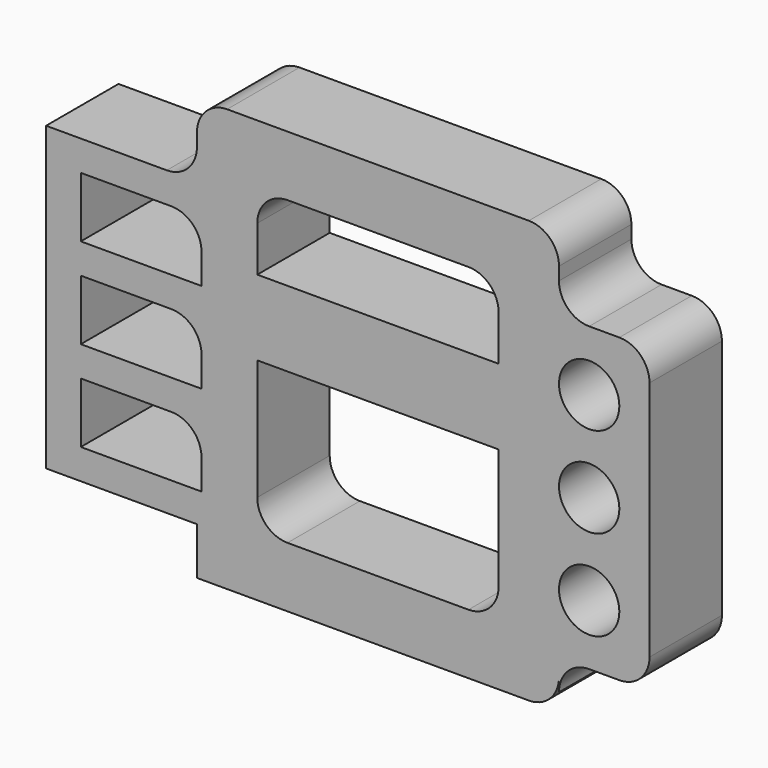
from build123d import *

# Parameters (mm, degrees)
F0_R     = 10
F1_DEPTH = 30


with BuildPart() as f1:
    # F0 (on Front) → F1 (new body)
    with BuildSketch(Plane.XZ):
        with BuildLine():
            ThreePointArc((-43.386797, 55.138951), (-46.315729, 48.067883), (-53.386797, 45.138951))
            Line((-53.386797, 45.138951), (-93.386797, 45.138951))
            Line((-93.386797, 45.138951), (-93.386797, -54.861049))
            Line((-93.386797, -54.861049), (-43.386797, -54.861049))
            Line((-43.386797, -54.861049), (-43.386797, -70.548529))
            Line((-43.386797, -70.548529), (66.613203, -70.548529))
            ThreePointArc((66.613203, -70.548529), (73.684271, -67.619597), (76.613203, -60.548529))
            Line((76.613203, -60.548529), (76.613203, -64.861049))
            ThreePointArc((76.613203, -64.861049), (79.542135, -57.789981), (86.613203, -54.861049))
            Line((86.613203, -54.861049), (96.613203, -54.861049))
            ThreePointArc((96.613203, -54.861049), (103.684271, -51.932117), (106.613203, -44.861049))
            Line((106.613203, -44.861049), (106.613203, 35.138951))
            ThreePointArc((106.613203, 35.138951), (103.684271, 42.210019), (96.613203, 45.138951))
            Line((96.613203, 45.138951), (86.613203, 45.138951))
            ThreePointArc((86.613203, 45.138951), (79.542135, 48.067883), (76.613203, 55.138951))
            Line((76.613203, 55.138951), (76.613203, 59.451471))
            ThreePointArc((76.613203, 59.451471), (73.684271, 66.522539), (66.613203, 69.451471))
            Line((66.613203, 69.451471), (-33.386797, 69.451471))
            ThreePointArc((-33.386797, 69.451471), (-40.457865, 66.522539), (-43.386797, 59.451471))
            Line((-43.386797, 59.451471), (-43.386797, 55.138951))
        make_face()
        with BuildLine():
            Line((-81.881762, -44.861049), (-81.881762, -24.861049))
            Line((-81.881762, -24.861049), (-51.881762, -24.861049))
            ThreePointArc((-51.881762, -24.861049), (-44.810694, -27.789981), (-41.881762, -34.861049))
            Line((-41.881762, -34.861049), (-41.881762, -44.861049))
            Line((-41.881762, -44.861049), (-81.881762, -44.861049))
        make_face(mode=Mode.SUBTRACT)
        with BuildLine():
            Line((-81.881762, -14.861049), (-81.881762, 5.138951))
            Line((-81.881762, 5.138951), (-51.881762, 5.138951))
            ThreePointArc((-51.881762, 5.138951), (-44.810694, 2.210019), (-41.881762, -4.861049))
            Line((-41.881762, -4.861049), (-41.881762, -14.861049))
            Line((-41.881762, -14.861049), (-81.881762, -14.861049))
        make_face(mode=Mode.SUBTRACT)
        with BuildLine():
            Line((-23.386797, -40.548529), (-23.386797, -0.548529))
            Line((-23.386797, -0.548529), (56.613203, -0.548529))
            Line((56.613203, -0.548529), (56.613203, -40.548529))
            ThreePointArc((56.613203, -40.548529), (53.684271, -47.619597), (46.613203, -50.548529))
            Line((46.613203, -50.548529), (-13.386797, -50.548529))
            ThreePointArc((-13.386797, -50.548529), (-20.457865, -47.619597), (-23.386797, -40.548529))
        make_face(mode=Mode.SUBTRACT)
        with Locations((86.613203, -34.861049)):
            Circle(F0_R, mode=Mode.SUBTRACT)
        with Locations((86.613203, -4.861049)):
            Circle(F0_R, mode=Mode.SUBTRACT)
        with BuildLine():
            Line((-81.881762, 15.138951), (-81.881762, 35.138951))
            Line((-81.881762, 35.138951), (-51.881762, 35.138951))
            ThreePointArc((-51.881762, 35.138951), (-44.810694, 32.210019), (-41.881762, 25.138951))
            Line((-41.881762, 25.138951), (-41.881762, 15.138951))
            Line((-41.881762, 15.138951), (-81.881762, 15.138951))
        make_face(mode=Mode.SUBTRACT)
        with Locations((86.613203, 25.138951)):
            Circle(F0_R, mode=Mode.SUBTRACT)
        with BuildLine():
            ThreePointArc((-23.386797, 39.451471), (-20.457865, 46.522539), (-13.386797, 49.451471))
            Line((-13.386797, 49.451471), (46.613203, 49.451471))
            ThreePointArc((46.613203, 49.451471), (53.684271, 46.522539), (56.613203, 39.451471))
            Line((56.613203, 39.451471), (56.613203, 24.451471))
            Line((56.613203, 24.451471), (-23.386797, 24.451471))
            Line((-23.386797, 24.451471), (-23.386797, 39.451471))
        make_face(mode=Mode.SUBTRACT)
    extrude(amount=F1_DEPTH)


solid = f1.part
